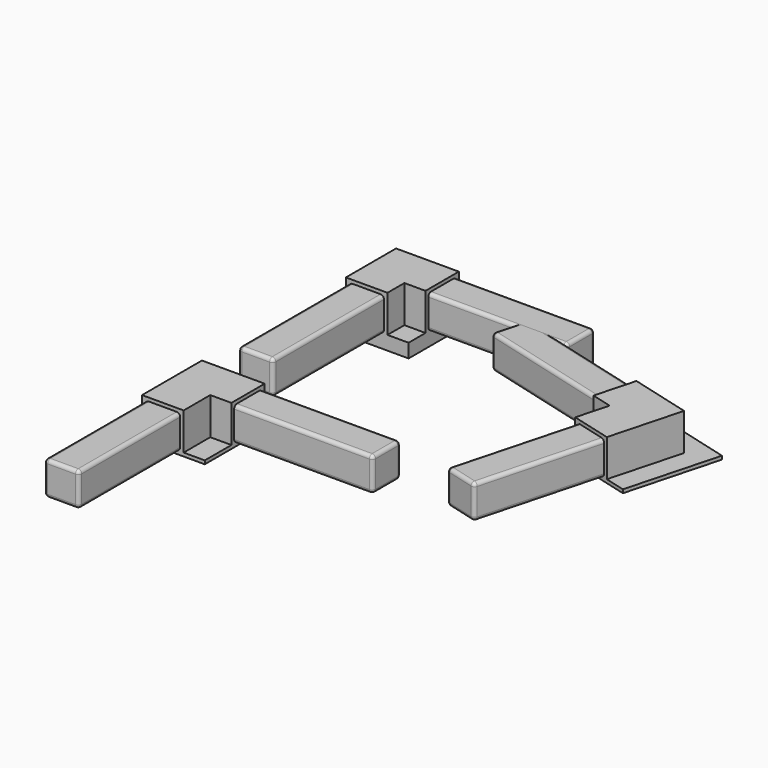
from build123d import *

# Parameters (mm, degrees)
PAD_DEPTH               = 11.7
SKETCH001_W             = 24.7
SKETCH001_H             = 11.7
SKETCH001_W_2           = 10
SKETCH001_H_2           = 9.7
POCKET_DEPTH            = 40
SKETCH002_W             = 24.7
SKETCH002_H             = 11.7
SKETCH002_W_2           = 10
SKETCH002_H_2           = 9.7
POCKET001_DEPTH         = 40
SKETCH003_W             = 6.1
SKETCH003_H             = 6.1
POCKET002_DEPTH         = 10.7
FILLET_R                = 1
FILLET001_R             = 1
FILLET001_FACE27_W      = 24.7
FILLET001_FACE27_H      = 1
POCKET003_DEPTH         = 0.5
POCKET003_FACE19_W      = 24.2
POCKET003_FACE19_H      = 1
POCKET004_DEPTH         = 0.5
PAD001_DEPTH            = 11.7
SKETCH005_W             = 24.7
SKETCH005_H             = 11.7
SKETCH005_W_2           = 10
SKETCH005_H_2           = 9.7
POCKET005_DEPTH         = 40
SKETCH006_W             = 24.7
SKETCH006_H             = 11.7
SKETCH006_W_2           = 10
SKETCH006_H_2           = 9.7
POCKET006_DEPTH         = 40
SKETCH007_W             = 6.1
SKETCH007_H             = 6.1
POCKET007_DEPTH         = 10.7
FILLET002_R             = 1
FILLET003_R             = 1
FILLET003_FACE27_W      = 24.7
FILLET003_FACE27_H      = 1
POCKET008_DEPTH         = 0.5
POCKET008_FACE19_W      = 24.2
POCKET008_FACE19_H      = 1
POCKET009_DEPTH         = 0.5
PAD002_DEPTH            = 3.5
PAD003_DEPTH            = 11.7
SKETCH009_W             = 24.7
SKETCH009_H             = 11.7
SKETCH009_W_2           = 10
SKETCH009_H_2           = 9.7
POCKET010_DEPTH         = 40
SKETCH010_W             = 24.7
SKETCH010_H             = 11.7
SKETCH010_W_2           = 10
SKETCH010_H_2           = 9.7
POCKET011_DEPTH         = 40
SKETCH011_W             = 6.1
SKETCH011_H             = 6.1
POCKET012_DEPTH         = 10.7
FILLET004_R             = 1
FILLET005_R             = 1
FILLET005_FACE27_W      = 24.7
FILLET005_FACE27_H      = 1
POCKET013_DEPTH         = 0.5
POCKET013_FACE19_W      = 24.2
POCKET013_FACE19_H      = 1
POCKET014_DEPTH         = 0.5
PAD004_DEPTH            = 3.5
BODY002_PLACEMENT_ANGLE = 255
PAD005_DEPTH            = 11.7
SKETCH013_W             = 24.7
SKETCH013_H             = 11.7
SKETCH013_W_2           = 10
SKETCH013_H_2           = 9.7
POCKET015_DEPTH         = 40
SKETCH014_W             = 24.7
SKETCH014_H             = 11.7
SKETCH014_W_2           = 10
SKETCH014_H_2           = 9.7
POCKET016_DEPTH         = 40
SKETCH015_W             = 6.1
SKETCH015_H             = 6.1
POCKET017_DEPTH         = 10.7
FILLET006_R             = 1
FILLET007_R             = 1
FILLET007_FACE27_W      = 24.7
FILLET007_FACE27_H      = 1
POCKET018_DEPTH         = 0.5
POCKET018_FACE19_W      = 24.2
POCKET018_FACE19_H      = 1
POCKET019_DEPTH         = 0.5
POCKET019_FACE20_W      = 24.2
POCKET019_FACE20_H      = 24.2
PAD006_DEPTH            = 3


with BuildPart() as body:
    # Sketch → Pad (new body)
    with BuildSketch(Plane.XY):
        Polygon((0, 0), (0, -40), (-24.7, -40), (-24.7, 24.7), (40, 24.7), (40, 0), align=None)
    extrude(amount=PAD_DEPTH)

    # Sketch001 (on Face5 of Pad) → Pocket (cut)
    with BuildSketch(Plane.YZ.offset(40)):
        with Locations((12.35, 5.85)):
            Rectangle(SKETCH001_W, SKETCH001_H)
        with Locations((12.1, 5.85)):
            Rectangle(SKETCH001_W_2, SKETCH001_H_2, mode=Mode.SUBTRACT)
    extrude(amount=-POCKET_DEPTH, mode=Mode.SUBTRACT)

    # Sketch002 (on Face1 of Pocket) → Pocket001 (cut)
    with BuildSketch(Plane.XZ.offset(40)):
        with Locations((-12.35, 5.85)):
            Rectangle(SKETCH002_W, SKETCH002_H)
        with Locations((-12.1, 5.85)):
            Rectangle(SKETCH002_W_2, SKETCH002_H_2, mode=Mode.SUBTRACT)
    extrude(amount=-POCKET001_DEPTH, mode=Mode.SUBTRACT)

    # Sketch003 (on Face10 of Pocket001) → Pocket002 (cut)
    with BuildSketch(Plane.XY.offset(11.7)):
        with Locations((-3.05, 3.05)):
            Rectangle(SKETCH003_W, SKETCH003_H)
        Polygon((-24.7, 24.7), (-24.7, 0), (-18.1, 0), (-18.1, 18.1), (0, 18.1), (0, 24.7), align=None)
    extrude(amount=-POCKET002_DEPTH, mode=Mode.SUBTRACT)

    # Fillet
    fillet_edges = [body.edges().sort_by_distance(p)[0] for p in [
        (-17.1, -20, 10.7),
        (-7.1, -20, 10.7),
        (-7.1, -20, 1),
        (20, 7.1, 1),
        (20, 7.1, 10.7),
        (20, 17.1, 10.7),
        (-17.1, -20, 1),
        (20, 17.1, 1),
    ]]
    fillet(fillet_edges, radius=FILLET_R)

    # Fillet001
    fillet001_edges = [body.edges().sort_by_distance(p)[0] for p in [
        (-12.1, -40, 10.7),
        (40, 12.1, 10.7),
    ]]
    fillet(fillet001_edges, radius=FILLET001_R)

    # Fillet001 Face27 → Pocket003 (cut)
    with BuildSketch(Plane(origin=(-12.35, 24.7, 0.5), x_dir=(1, 0, 0), z_dir=(0, 1, 0))):
        Rectangle(FILLET001_FACE27_W, FILLET001_FACE27_H)
    extrude(amount=-POCKET003_DEPTH, mode=Mode.SUBTRACT)

    # Pocket003 Face19 → Pocket004 (cut)
    with BuildSketch(Plane(origin=(-24.7, 12.1, 0.5), x_dir=(0, 1, 0), z_dir=(-1, 0, 0))):
        Rectangle(POCKET003_FACE19_W, POCKET003_FACE19_H)
    extrude(amount=-POCKET004_DEPTH, mode=Mode.SUBTRACT)


with BuildPart() as obj1:
    # Sketch004 → Pad001 (new body)
    with BuildSketch(Plane.XY):
        Polygon((0, 0), (0, -40), (-24.7, -40), (-24.7, 24.7), (40, 24.7), (40, 0), align=None)
    extrude(amount=PAD001_DEPTH)

    # Sketch005 (on Face5 of Pad001) → Pocket005 (cut)
    with BuildSketch(Plane.YZ.offset(40)):
        with Locations((12.35, 5.85)):
            Rectangle(SKETCH005_W, SKETCH005_H)
        with Locations((12.1, 5.85)):
            Rectangle(SKETCH005_W_2, SKETCH005_H_2, mode=Mode.SUBTRACT)
    extrude(amount=-POCKET005_DEPTH, mode=Mode.SUBTRACT)

    # Sketch006 (on Face1 of Pocket005) → Pocket006 (cut)
    with BuildSketch(Plane.XZ.offset(40)):
        with Locations((-12.35, 5.85)):
            Rectangle(SKETCH006_W, SKETCH006_H)
        with Locations((-12.1, 5.85)):
            Rectangle(SKETCH006_W_2, SKETCH006_H_2, mode=Mode.SUBTRACT)
    extrude(amount=-POCKET006_DEPTH, mode=Mode.SUBTRACT)

    # Sketch007 (on Face10 of Pocket006) → Pocket007 (cut)
    with BuildSketch(Plane.XY.offset(11.7)):
        with Locations((-3.05, 3.05)):
            Rectangle(SKETCH007_W, SKETCH007_H)
        Polygon((-24.7, 24.7), (-24.7, 0), (-18.1, 0), (-18.1, 18.1), (0, 18.1), (0, 24.7), align=None)
    extrude(amount=-POCKET007_DEPTH, mode=Mode.SUBTRACT)

    # Fillet002
    fillet002_edges = [obj1.edges().sort_by_distance(p)[0] for p in [
        (-17.1, -20, 10.7),
        (-7.1, -20, 10.7),
        (-7.1, -20, 1),
        (20, 7.1, 1),
        (20, 7.1, 10.7),
        (20, 17.1, 10.7),
        (-17.1, -20, 1),
        (20, 17.1, 1),
    ]]
    fillet(fillet002_edges, radius=FILLET002_R)

    # Fillet003
    fillet003_edges = [obj1.edges().sort_by_distance(p)[0] for p in [
        (-12.1, -40, 10.7),
        (40, 12.1, 10.7),
    ]]
    fillet(fillet003_edges, radius=FILLET003_R)

    # Fillet003 Face27 → Pocket008 (cut)
    with BuildSketch(Plane(origin=(-12.35, 24.7, 0.5), x_dir=(1, 0, 0), z_dir=(0, 1, 0))):
        Rectangle(FILLET003_FACE27_W, FILLET003_FACE27_H)
    extrude(amount=-POCKET008_DEPTH, mode=Mode.SUBTRACT)

    # Pocket008 Face19 → Pocket009 (cut)
    with BuildSketch(Plane(origin=(-24.7, 12.1, 0.5), x_dir=(0, 1, 0), z_dir=(-1, 0, 0))):
        Rectangle(POCKET008_FACE19_W, POCKET008_FACE19_H)
    extrude(amount=-POCKET009_DEPTH, mode=Mode.SUBTRACT)

    # Pocket009 Face15 → Pad002 (add)
    with BuildSketch(Plane(origin=(-12.1, 0, 4.693928), x_dir=(-1, 0, 0), z_dir=(0, -1, 0))):
        Polygon((12.1, 3.693928), (12.1, 4.693928), (-12.1, 4.693928), (-12.1, 3.693928), (-6, 3.693928), (-6, -7.006072), (6, -7.006072), (6, 3.693928), align=None)
        with BuildLine():
            Line((5, 2.693928), (5, -5.006072))
            ThreePointArc((5, -5.006072), (4.707107, -5.713179), (4, -6.006072))
            Line((4, -6.006072), (-4, -6.006072))
            ThreePointArc((-4, -6.006072), (-4.707107, -5.713179), (-5, -5.006072))
            Line((-5, -5.006072), (-5, 2.693928))
            ThreePointArc((-5, 2.693928), (-4.707107, 3.401034), (-4, 3.693928))
            Line((-4, 3.693928), (4, 3.693928))
            ThreePointArc((4, 3.693928), (4.707107, 3.401034), (5, 2.693928))
        make_face(mode=Mode.SUBTRACT)
    extrude(amount=PAD002_DEPTH)


with BuildPart() as obj1_1:
    # Body001 placement: moved
    add(obj1.part.moved(Location((0, -70, 0))))


with BuildPart() as obj2:
    # Sketch008 → Pad003 (new body)
    with BuildSketch(Plane.XY):
        Polygon((0, 0), (0, -40), (-24.7, -40), (-24.7, 24.7), (40, 24.7), (40, 0), align=None)
    extrude(amount=PAD003_DEPTH)

    # Sketch009 (on Face5 of Pad003) → Pocket010 (cut)
    with BuildSketch(Plane.YZ.offset(40)):
        with Locations((12.35, 5.85)):
            Rectangle(SKETCH009_W, SKETCH009_H)
        with Locations((12.1, 5.85)):
            Rectangle(SKETCH009_W_2, SKETCH009_H_2, mode=Mode.SUBTRACT)
    extrude(amount=-POCKET010_DEPTH, mode=Mode.SUBTRACT)

    # Sketch010 (on Face1 of Pocket010) → Pocket011 (cut)
    with BuildSketch(Plane.XZ.offset(40)):
        with Locations((-12.35, 5.85)):
            Rectangle(SKETCH010_W, SKETCH010_H)
        with Locations((-12.1, 5.85)):
            Rectangle(SKETCH010_W_2, SKETCH010_H_2, mode=Mode.SUBTRACT)
    extrude(amount=-POCKET011_DEPTH, mode=Mode.SUBTRACT)

    # Sketch011 (on Face10 of Pocket011) → Pocket012 (cut)
    with BuildSketch(Plane.XY.offset(11.7)):
        with Locations((-3.05, 3.05)):
            Rectangle(SKETCH011_W, SKETCH011_H)
        Polygon((-24.7, 24.7), (-24.7, 0), (-18.1, 0), (-18.1, 18.1), (0, 18.1), (0, 24.7), align=None)
    extrude(amount=-POCKET012_DEPTH, mode=Mode.SUBTRACT)

    # Fillet004
    fillet004_edges = [obj2.edges().sort_by_distance(p)[0] for p in [
        (-17.1, -20, 10.7),
        (-7.1, -20, 10.7),
        (-7.1, -20, 1),
        (20, 7.1, 1),
        (20, 7.1, 10.7),
        (20, 17.1, 10.7),
        (-17.1, -20, 1),
        (20, 17.1, 1),
    ]]
    fillet(fillet004_edges, radius=FILLET004_R)

    # Fillet005
    fillet005_edges = [obj2.edges().sort_by_distance(p)[0] for p in [
        (-12.1, -40, 10.7),
        (40, 12.1, 10.7),
    ]]
    fillet(fillet005_edges, radius=FILLET005_R)

    # Fillet005 Face27 → Pocket013 (cut)
    with BuildSketch(Plane(origin=(-12.35, 24.7, 0.5), x_dir=(1, 0, 0), z_dir=(0, 1, 0))):
        Rectangle(FILLET005_FACE27_W, FILLET005_FACE27_H)
    extrude(amount=-POCKET013_DEPTH, mode=Mode.SUBTRACT)

    # Pocket013 Face19 → Pocket014 (cut)
    with BuildSketch(Plane(origin=(-24.7, 12.1, 0.5), x_dir=(0, 1, 0), z_dir=(-1, 0, 0))):
        Rectangle(POCKET013_FACE19_W, POCKET013_FACE19_H)
    extrude(amount=-POCKET014_DEPTH, mode=Mode.SUBTRACT)

    # Pocket014 Face21 → Pad004 (add)
    with BuildSketch(Plane(origin=(0, 12.1, 4.693928), x_dir=(0, -1, 0), z_dir=(1, 0, 0))):
        Polygon((12.1, 3.693928), (12.1, 4.693928), (-12.1, 4.693928), (-12.1, 3.693928), (-6, 3.693928), (-6, -7.006072), (6, -7.006072), (6, 3.693928), align=None)
        with BuildLine():
            Line((5, 2.693928), (5, -5.006072))
            ThreePointArc((5, -5.006072), (4.707107, -5.713179), (4, -6.006072))
            Line((4, -6.006072), (-4, -6.006072))
            ThreePointArc((-4, -6.006072), (-4.707107, -5.713179), (-5, -5.006072))
            Line((-5, -5.006072), (-5, 2.693928))
            ThreePointArc((-5, 2.693928), (-4.707107, 3.401034), (-4, 3.693928))
            Line((-4, 3.693928), (4, 3.693928))
            ThreePointArc((4, 3.693928), (4.707107, 3.401034), (5, 2.693928))
        make_face(mode=Mode.SUBTRACT)
    extrude(amount=PAD004_DEPTH)


with BuildPart() as obj2_1:
    # Body002 placement: moved
    add(obj2.part.moved(Location((59.887401, -16.046781, 0))).rotate(Axis((59.887401, -16.046781, 0), (0, 0, 1)), BODY002_PLACEMENT_ANGLE))


with BuildPart() as obj3:
    # Sketch012 → Pad005 (new body)
    with BuildSketch(Plane.XY):
        Polygon((0, 0), (0, -40), (-24.7, -40), (-24.7, 24.7), (40, 24.7), (40, 0), align=None)
    extrude(amount=PAD005_DEPTH)

    # Sketch013 (on Face5 of Pad005) → Pocket015 (cut)
    with BuildSketch(Plane.YZ.offset(40)):
        with Locations((12.35, 5.85)):
            Rectangle(SKETCH013_W, SKETCH013_H)
        with Locations((12.1, 5.85)):
            Rectangle(SKETCH013_W_2, SKETCH013_H_2, mode=Mode.SUBTRACT)
    extrude(amount=-POCKET015_DEPTH, mode=Mode.SUBTRACT)

    # Sketch014 (on Face1 of Pocket015) → Pocket016 (cut)
    with BuildSketch(Plane.XZ.offset(40)):
        with Locations((-12.35, 5.85)):
            Rectangle(SKETCH014_W, SKETCH014_H)
        with Locations((-12.1, 5.85)):
            Rectangle(SKETCH014_W_2, SKETCH014_H_2, mode=Mode.SUBTRACT)
    extrude(amount=-POCKET016_DEPTH, mode=Mode.SUBTRACT)

    # Sketch015 (on Face10 of Pocket016) → Pocket017 (cut)
    with BuildSketch(Plane.XY.offset(11.7)):
        with Locations((-3.05, 3.05)):
            Rectangle(SKETCH015_W, SKETCH015_H)
        Polygon((-24.7, 24.7), (-24.7, 0), (-18.1, 0), (-18.1, 18.1), (0, 18.1), (0, 24.7), align=None)
    extrude(amount=-POCKET017_DEPTH, mode=Mode.SUBTRACT)

    # Fillet006
    fillet006_edges = [obj3.edges().sort_by_distance(p)[0] for p in [
        (-17.1, -20, 10.7),
        (-7.1, -20, 10.7),
        (-7.1, -20, 1),
        (20, 7.1, 1),
        (20, 7.1, 10.7),
        (20, 17.1, 10.7),
        (-17.1, -20, 1),
        (20, 17.1, 1),
    ]]
    fillet(fillet006_edges, radius=FILLET006_R)

    # Fillet007
    fillet007_edges = [obj3.edges().sort_by_distance(p)[0] for p in [
        (-12.1, -40, 10.7),
        (40, 12.1, 10.7),
    ]]
    fillet(fillet007_edges, radius=FILLET007_R)

    # Fillet007 Face27 → Pocket018 (cut)
    with BuildSketch(Plane(origin=(-12.35, 24.7, 0.5), x_dir=(1, 0, 0), z_dir=(0, 1, 0))):
        Rectangle(FILLET007_FACE27_W, FILLET007_FACE27_H)
    extrude(amount=-POCKET018_DEPTH, mode=Mode.SUBTRACT)

    # Pocket018 Face19 → Pocket019 (cut)
    with BuildSketch(Plane(origin=(-24.7, 12.1, 0.5), x_dir=(0, 1, 0), z_dir=(-1, 0, 0))):
        Rectangle(POCKET018_FACE19_W, POCKET018_FACE19_H)
    extrude(amount=-POCKET019_DEPTH, mode=Mode.SUBTRACT)

    # Pocket019 Face20 → Pad006 (add)
    with BuildSketch(Plane(origin=(-12.1, 12.1, 0), x_dir=(0, -1, 0), z_dir=(0, 0, -1))):
        Rectangle(POCKET019_FACE20_W, POCKET019_FACE20_H)
    extrude(amount=PAD006_DEPTH)


solid = Compound([body.part, obj1_1.part, obj2_1.part, obj3.part])
